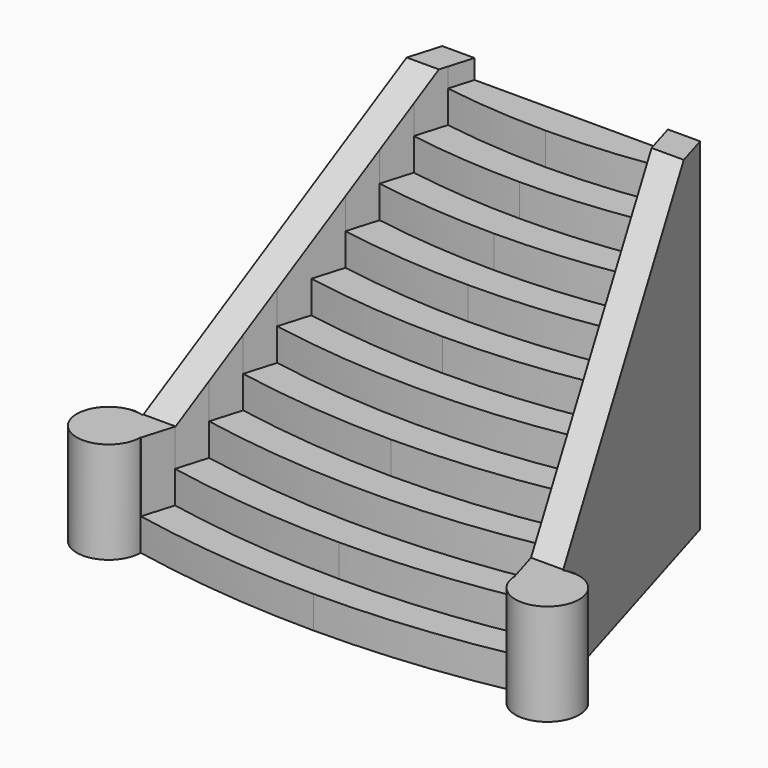
from build123d import *

# Parameters (mm, degrees)
F1_DEPTH  = 10
F2_DEPTH  = 20
F3_DEPTH  = 30
F4_DEPTH  = 40
F5_DEPTH  = 50
F6_DEPTH  = 60
F7_DEPTH  = 70
F8_DEPTH  = 80
F9_DEPTH  = 90
F10_DEPTH = 100
F11_DEPTH = 106
F13_DEPTH = 200
F14_START = 62
F14_DEPTH = 60
F15_SCALE = 0.5


with BuildPart() as f1:
    # F0 (on Top) → F1 (new body)
    with BuildSketch(Plane.XY):
        with BuildLine():
            Line((36.7396253365, -84.6989331727), (33.8752285407, -94.3281765161))
            ThreePointArc((33.8752285407, -94.3281765161), (62.7668696335, -98.5786771982), (91.9348918938, -100))
            Line((91.9348918939, -100), (91.9348918939, -90))
            ThreePointArc((91.9348918938, -90), (64.2102694445, -88.6716912169), (36.7396253365, -84.6989331727))
        make_face()
        with BuildLine():
            Line((91.9348918939, -90), (91.9348918939, -100))
            ThreePointArc((91.9348918938, -100), (121.1029141542, -98.5786771982), (149.994555247, -94.3281765161))
            Line((149.994555247, -94.3281765161), (147.1301584512, -84.6989331727))
            ThreePointArc((147.1301584512, -84.6989331727), (119.6595143432, -88.6716912169), (91.9348918938, -90))
        make_face()
    extrude(amount=F1_DEPTH)

    # F0 (on Top) → F2 (join)
    with BuildSketch(Plane.XY):
        with BuildLine():
            Line((39.6049710277, -75.0664999271), (36.7396253365, -84.6989331727))
            ThreePointArc((36.7396253365, -84.6989331727), (64.2102694445, -88.6716912169), (91.9348918938, -90))
            Line((91.9348918939, -90), (91.9348918939, -80))
            ThreePointArc((91.9348918938, -80), (65.6539099829, -78.7638964963), (39.6049710277, -75.0664999271))
        make_face()
        with BuildLine():
            Line((91.9348918939, -80), (91.9348918939, -90))
            ThreePointArc((91.9348918938, -90), (119.6595143432, -88.6716912169), (147.1301584512, -84.6989331727))
            Line((147.1301584512, -84.6989331727), (144.26481276, -75.0664999271))
            ThreePointArc((144.26481276, -75.0664999271), (118.2158738048, -78.7638964963), (91.9348918938, -80))
        make_face()
    extrude(amount=F2_DEPTH)

    # F0 (on Top) → F3 (join)
    with BuildSketch(Plane.XY):
        with BuildLine():
            Line((42.4713721555, -65.4305186204), (39.6049710277, -75.0664999271))
            ThreePointArc((39.6049710277, -75.0664999271), (65.6539099829, -78.7638964963), (91.9348918938, -80))
            Line((91.9348918939, -80), (91.9348918939, -70))
            ThreePointArc((91.9348918938, -70), (67.0978231005, -68.8552026905), (42.4713721555, -65.4305186204))
        make_face()
        with BuildLine():
            Line((91.9348918939, -70), (91.9348918939, -80))
            ThreePointArc((91.9348918938, -80), (118.2158738048, -78.7638964963), (144.26481276, -75.0664999271))
            Line((144.26481276, -75.0664999271), (141.3984116322, -65.4305186204))
            ThreePointArc((141.3984116322, -65.4305186204), (116.7719606872, -68.8552026905), (91.9348918938, -70))
        make_face()
    extrude(amount=F3_DEPTH)

    # F0 (on Top) → F4 (join)
    with BuildSketch(Plane.XY):
        with BuildLine():
            Line((45.3389518797, -55.7905752255), (42.4713721555, -65.4305186204))
            ThreePointArc((42.4713721555, -65.4305186204), (67.0978231005, -68.8552026905), (91.9348918938, -70))
            Line((91.9348918939, -70), (91.9348918939, -60))
            ThreePointArc((91.9348918938, -60), (68.5420463918, -58.945505424), (45.3389518797, -55.7905752255))
        make_face()
        with BuildLine():
            Line((91.9348918939, -60), (91.9348918939, -70))
            ThreePointArc((91.9348918938, -70), (116.7719606872, -68.8552026905), (141.3984116322, -65.4305186204))
            Line((141.3984116322, -65.4305186204), (138.530831908, -55.7905752255))
            ThreePointArc((138.530831908, -55.7905752255), (115.3277373959, -58.9455054241), (91.9348918938, -60))
        make_face()
    extrude(amount=F4_DEPTH)

    # F0 (on Top) → F5 (join)
    with BuildSketch(Plane.XY):
        with BuildLine():
            Line((48.2078533621, -46.146188476), (45.3389518797, -55.7905752255))
            ThreePointArc((45.3389518797, -55.7905752255), (68.5420463918, -58.945505424), (91.9348918938, -60))
            Line((91.9348918939, -60), (91.9348918939, -50))
            ThreePointArc((91.9348918938, -50), (69.9866245248, -49.0346834469), (48.2078533621, -46.146188476))
        make_face()
        with BuildLine():
            Line((91.9348918939, -50), (91.9348918939, -60))
            ThreePointArc((91.9348918938, -60), (115.3277373959, -58.9455054241), (138.530831908, -55.7905752255))
            Line((138.530831908, -55.7905752255), (135.6619304256, -46.146188476))
            ThreePointArc((135.6619304256, -46.146188476), (113.8831592629, -49.0346834469), (91.9348918938, -50))
        make_face()
    extrude(amount=F5_DEPTH)

    # F0 (on Top) → F6 (join)
    with BuildSketch(Plane.XY):
        with BuildLine():
            Line((51.0782440128, -36.4967955891), (48.2078533621, -46.146188476))
            ThreePointArc((48.2078533621, -46.146188476), (69.9866245248, -49.0346834469), (91.9348918938, -50))
            Line((91.9348918939, -50), (91.9348918939, -40))
            ThreePointArc((91.9348918938, -40), (71.4316109538, -39.1225950652), (51.0782440128, -36.4967955891))
        make_face()
        with BuildLine():
            Line((91.9348918939, -40), (91.9348918939, -50))
            ThreePointArc((91.9348918938, -50), (113.8831592629, -49.0346834469), (135.6619304256, -46.146188476))
            Line((135.6619304256, -46.146188476), (132.7915397749, -36.4967955891))
            ThreePointArc((132.7915397749, -36.4967955891), (112.4381728339, -39.1225950652), (91.9348918938, -40))
        make_face()
    extrude(amount=F6_DEPTH)

    # F0 (on Top) → F7 (join)
    with BuildSketch(Plane.XY):
        with BuildLine():
            Line((53.9503208714, -26.8417341766), (51.0782440128, -36.4967955891))
            ThreePointArc((51.0782440128, -36.4967955891), (71.4316109538, -39.1225950652), (91.9348918938, -40))
            Line((91.9348918939, -40), (91.9348918939, -30))
            ThreePointArc((91.9348918938, -30), (72.8770701481, -29.2090736212), (53.9503208714, -26.8417341766))
        make_face()
        with BuildLine():
            Line((91.9348918939, -30), (91.9348918939, -40))
            ThreePointArc((91.9348918938, -40), (112.4381728339, -39.1225950652), (132.7915397749, -36.4967955891))
            Line((132.7915397749, -36.4967955891), (129.9194629163, -26.8417341766))
            ThreePointArc((129.9194629163, -26.8417341766), (110.9927136396, -29.2090736212), (91.9348918938, -30))
        make_face()
    extrude(amount=F7_DEPTH)

    # F0 (on Top) → F8 (join)
    with BuildSketch(Plane.XY):
        with BuildLine():
            ThreePointArc((91.9348918938, -20), (74.323080523, -19.2939217129), (56.824317494, -17.1802190931))
            Line((56.824317494, -17.1802190931), (53.9503208714, -26.8417341766))
            ThreePointArc((53.9503208714, -26.8417341766), (72.8770701481, -29.2090736212), (91.9348918938, -30))
            Line((91.9348918939, -30), (91.9348918939, -20))
        make_face()
        with BuildLine():
            ThreePointArc((127.0454662937, -17.1802190931), (109.5467032647, -19.2939217129), (91.9348918938, -20))
            Line((91.9348918939, -20), (91.9348918939, -30))
            ThreePointArc((91.9348918938, -30), (110.9927136396, -29.2090736212), (129.9194629163, -26.8417341766))
            Line((129.9194629163, -26.8417341766), (127.0454662937, -17.1802190931))
        make_face()
    extrude(amount=F8_DEPTH)

    # F0 (on Top) → F9 (join)
    with BuildSketch(Plane.XY):
        with BuildLine():
            ThreePointArc((91.9348918938, -10), (75.7697383448, -9.3769037185), (59.7005128631, -7.5113124832))
            Line((59.7005128631, -7.5113124832), (56.824317494, -17.1802190931))
            ThreePointArc((56.824317494, -17.1802190931), (74.323080523, -19.2939217129), (91.9348918938, -20))
            Line((91.9348918939, -20), (91.9348918939, -10))
        make_face()
        with BuildLine():
            ThreePointArc((124.1692709246, -7.5113124832), (108.1000454429, -9.3769037185), (91.9348918938, -10))
            Line((91.9348918939, -10), (91.9348918939, -20))
            ThreePointArc((91.9348918938, -20), (109.5467032647, -19.2939217129), (127.0454662937, -17.1802190931))
            Line((127.0454662937, -17.1802190931), (124.1692709246, -7.5113124832))
        make_face()
    extrude(amount=F9_DEPTH)

    # F0 (on Top) → F10 (join)
    with BuildSketch(Plane.XY):
        with BuildLine():
            Line((91.9348918939, 0), (61.9348918939, 0))
            Line((61.9348918939, 0), (59.7005128631, -7.5113124832))
            ThreePointArc((59.7005128631, -7.5113124832), (75.7697383448, -9.3769037185), (91.9348918938, -10))
            Line((91.9348918939, -10), (91.9348918939, 0))
        make_face()
        with BuildLine():
            Line((121.9348918939, 0), (91.9348918939, 0))
            Line((91.9348918939, 0), (91.9348918939, -10))
            ThreePointArc((91.9348918938, -10), (108.1000454429, -9.3769037185), (124.1692709246, -7.5113124832))
            Line((124.1692709246, -7.5113124832), (121.9348918939, 0))
        make_face()
    extrude(amount=F10_DEPTH)

    # F0 (on Top) → F11 (join)
    with BuildSketch(Plane.XY):
        with BuildLine():
            Line((33.7702630603, -94.3281765161), (33.8752285407, -94.3281765161))
            Line((33.8752285407, -94.3281765161), (36.7396253365, -84.6989331727))
            Line((36.7396253365, -84.6989331727), (39.6049710277, -75.0664999271))
            Line((39.6049710277, -75.0664999271), (42.4713721555, -65.4305186204))
            Line((42.4713721555, -65.4305186204), (45.3389518797, -55.7905752255))
            Line((45.3389518797, -55.7905752255), (48.2078533621, -46.146188476))
            Line((48.2078533621, -46.146188476), (51.0782440128, -36.4967955891))
            Line((51.0782440128, -36.4967955891), (53.9503208714, -26.8417341766))
            Line((53.9503208714, -26.8417341766), (56.824317494, -17.1802190931))
            Line((56.824317494, -17.1802190931), (59.7005128631, -7.5113124832))
            Line((59.7005128631, -7.5113124832), (61.9348918939, 0))
            Line((61.9348918939, 0), (51.9348918939, 0))
            Line((51.9348918939, 0), (26.696511225, -84.843869891))
            ThreePointArc((26.696511225, -84.843869891), (15.9433814137, -100.2440457927), (33.7702630603, -94.3281765161))
        make_face()
        with BuildLine():
            Line((147.1301584512, -84.6989331727), (149.994555247, -94.3281765161))
            Line((149.994555247, -94.3281765161), (150.0995207274, -94.3281765162))
            ThreePointArc((150.0995207274, -94.3281765162), (167.926402374, -100.2440457927), (157.1732725628, -84.843869891))
            Line((157.1732725628, -84.843869891), (131.9348918939, 0))
            Line((131.9348918939, 0), (121.9348918939, 0))
            Line((121.9348918939, 0), (124.1692709246, -7.5113124832))
            Line((124.1692709246, -7.5113124832), (127.0454662937, -17.1802190931))
            Line((127.0454662937, -17.1802190931), (129.9194629163, -26.8417341766))
            Line((129.9194629163, -26.8417341766), (132.7915397749, -36.4967955891))
            Line((132.7915397749, -36.4967955891), (135.6619304256, -46.146188476))
            Line((135.6619304256, -46.146188476), (138.530831908, -55.7905752255))
            Line((138.530831908, -55.7905752255), (141.3984116322, -65.4305186204))
            Line((141.3984116322, -65.4305186204), (144.26481276, -75.0664999271))
            Line((144.26481276, -75.0664999271), (147.1301584512, -84.6989331727))
        make_face()
    extrude(amount=F11_DEPTH)

    # F12 (on Right) → F13 (cut)
    with BuildSketch(Plane.YZ):
        Polygon((-84.5222696662, 31.5275415778), (-10, 106.075361371), (-105.4867506027, 106.075361371), (-105.4867506027, 31.5275415778), align=None)
    extrude(amount=F13_DEPTH, mode=Mode.SUBTRACT)

    # F12 (on Right) → F14 (cut)
    with BuildSketch(Plane.YZ.offset(F14_START)):
        Polygon((0, 79.2063996196), (-81.6366150975, 0), (0, 0), align=None)
    extrude(amount=F14_DEPTH, mode=Mode.SUBTRACT)


with BuildPart() as f1_1:
    # F15: moved
    add(f1.part.scale(F15_SCALE).moved(Location((25.9674459469, 0, 0))))


solid = f1_1.part
